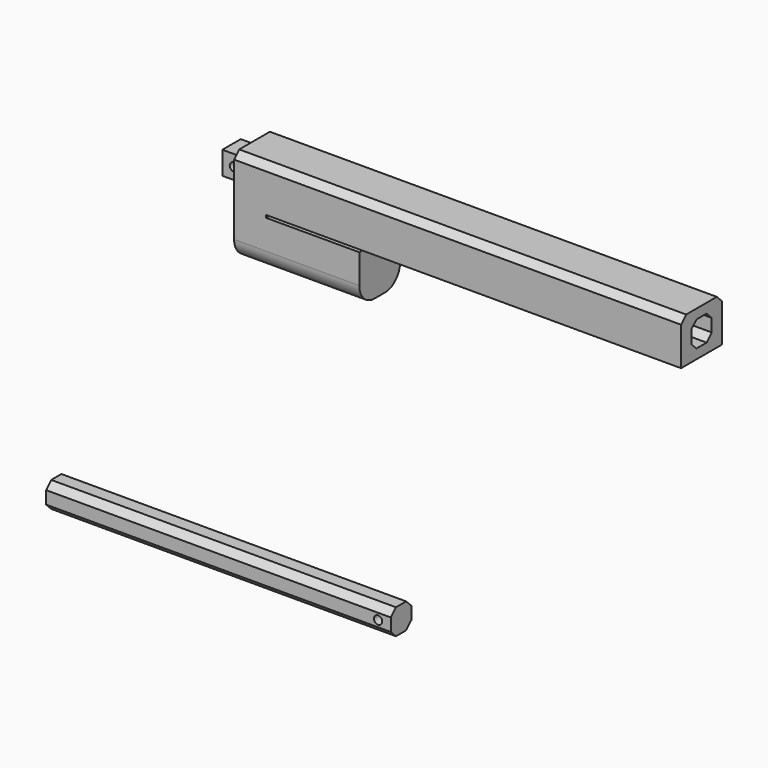
from build123d import *

# Parameters (mm, degrees)
F0_W          = 18
F0_H          = 18
F0_R          = 3.25
F1_DEPTH      = 9
F1_DEPTH_BACK = 9
F0_W_2        = 325
F0_H_2        = 35
F0_W_3        = 73
F0_H_3        = 38
F2_DEPTH      = 20
F2_DEPTH_BACK = 20
F3_SIZE       = 5
F4_R          = 15
F6_DEPTH      = 250
F0_W_4        = 270
F0_H_4        = 20
F7_DEPTH      = 20
F8_SIZE       = 5


with BuildPart() as f1:
    # F0 (on Front) → F1 (new body, two sides)
    with BuildSketch(Plane.XZ) as f1_sk:
        with Locations((-359, -7.062235)):
            Rectangle(F0_W, F0_H)
        with Locations((-359, -7.062235)):
            Circle(F0_R, mode=Mode.SUBTRACT)
    extrude(amount=F1_DEPTH)
    extrude(f1_sk.sketch, amount=-F1_DEPTH_BACK)

    # F0 (on Front) → F2 (join, two sides)
    with BuildSketch(Plane.XZ) as f2_sk:
        Polygon((-350, 1.937765), (-350, -16.062235), (-350, -64.562235), (-325, -64.562235), (-325, -26.562235), (-325, -24.562235), (-325, 10.437765), (-350, 10.437765), align=None)
        with Locations((-162.5, -7.062235)):
            Rectangle(F0_W_2, F0_H_2)
        with Locations((-288.5, -45.562235)):
            Rectangle(F0_W_3, F0_H_3)
    extrude(amount=F2_DEPTH)
    extrude(f2_sk.sketch, amount=-F2_DEPTH_BACK)

    # F3
    f3_edges = [f1.edges().sort_by_distance(p)[0] for p in [
        (-175, 20, 10.437765),
        (-175, -20, 10.437765),
    ]]
    chamfer(f3_edges, length=F3_SIZE)

    # F4
    f4_edges = [f1.edges().sort_by_distance(p)[0] for p in [
        (-301, 20, -64.562235),
        (-301, -20, -64.562235),
    ]]
    fillet(f4_edges, radius=F4_R)

    # F5 (on face) → F6 (cut)
    with BuildSketch(Plane.YZ):
        Polygon((-10, -12.062235), (-5, -17.062235), (-5, -12.062235), align=None)
        Polygon((-5, -12.062235), (-5, -17.062235), (5, -17.062235), (5, -12.062235), (10, -12.062235), (10, -2.062235), (5, -2.062235), (5, 2.937765), (-5, 2.937765), (-5, -2.062235), (-10, -2.062235), (-10, -12.062235), align=None)
        Polygon((5, -12.062235), (5, -17.062235), (10, -12.062235), align=None)
        Polygon((5, -2.062235), (10, -2.062235), (5, 2.937765), align=None)
        Polygon((-5, 2.937765), (-10, -2.062235), (-5, -2.062235), align=None)
    extrude(amount=-F6_DEPTH, mode=Mode.SUBTRACT)


with BuildPart() as f7:
    # F0 (on Front) → F7 (new body)
    with BuildSketch(Plane.XZ):
        with Locations((-362.263223, -275.296142)):
            Rectangle(F0_W_4, F0_H_4)
        with Locations((-237.263223, -275.296142)):
            Circle(F0_R, mode=Mode.SUBTRACT)
    extrude(amount=F7_DEPTH)

    # F8
    f8_edges = [f7.edges().sort_by_distance(p)[0] for p in [
        (-362.263223, 0, -285.296142),
        (-362.263223, 0, -265.296142),
        (-362.263223, -20, -265.296142),
        (-362.263223, -20, -285.296142),
    ]]
    chamfer(f8_edges, length=F8_SIZE)


solid = Compound([f1.part, f7.part])
